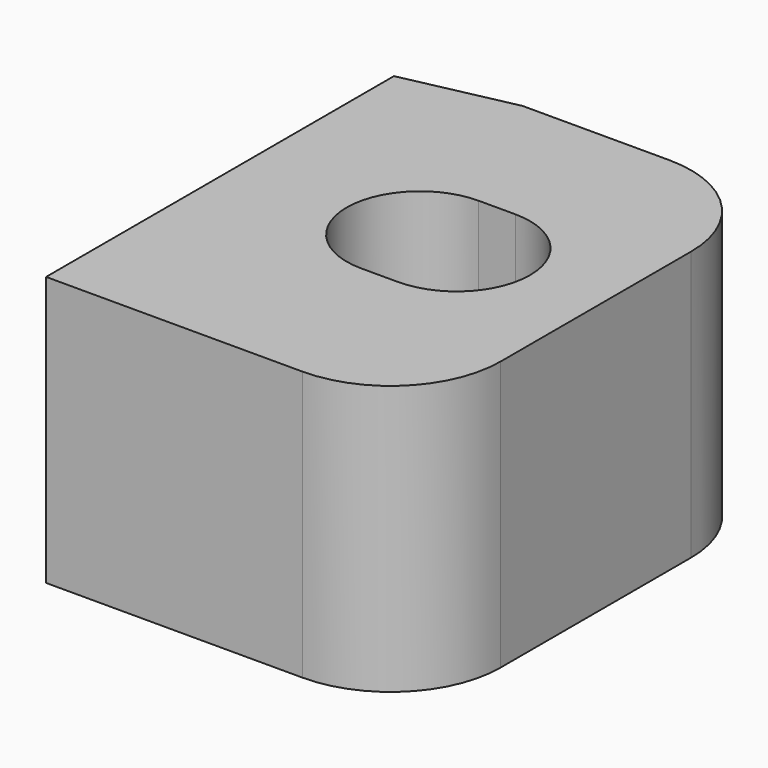
from build123d import *

# Parameters (mm, degrees)
SKETCH_W        = 25.4
SKETCH_H        = 31.75
PAD_DEPTH       = 18.669
POCKET_DEPTH    = 18.67
FILLET_R        = 7.62
POCKET001_DEPTH = 18.67


with BuildPart() as part:
    # Sketch → Pad (new body)
    with BuildSketch(Plane.XY):
        with Locations((12.7, 15.875)):
            Rectangle(SKETCH_W, SKETCH_H)
    extrude(amount=-PAD_DEPTH)

    # Sketch001 (on Face5 of Pad) → Pocket (cut, through all)
    with BuildSketch(Plane.XY):
        Polygon((7.62, 31.75), (0, 30.130319), (0, 31.75), align=None)
    extrude(amount=-POCKET_DEPTH, mode=Mode.SUBTRACT)

    # Fillet
    fillet_edges = [part.edges().sort_by_distance(p)[0] for p in [
        (25.4, 31.75, -9.3345),
        (25.4, 0, -9.3345),
    ]]
    fillet(fillet_edges, radius=FILLET_R)

    # Sketch002 (on Face2 of Fillet) → Pocket001 (cut, through all)
    with BuildSketch(Plane.XY):
        with BuildLine():
            ThreePointArc((12.7, 21.59), (7.62, 16.51), (12.7, 11.43))
            Line((12.7, 11.43), (15.24, 11.43))
            ThreePointArc((15.24, 11.43), (20.32, 16.51), (15.24, 21.59))
            Line((12.7, 21.59), (15.24, 21.59))
        make_face()
    extrude(amount=-POCKET001_DEPTH, mode=Mode.SUBTRACT)


solid = part.part
